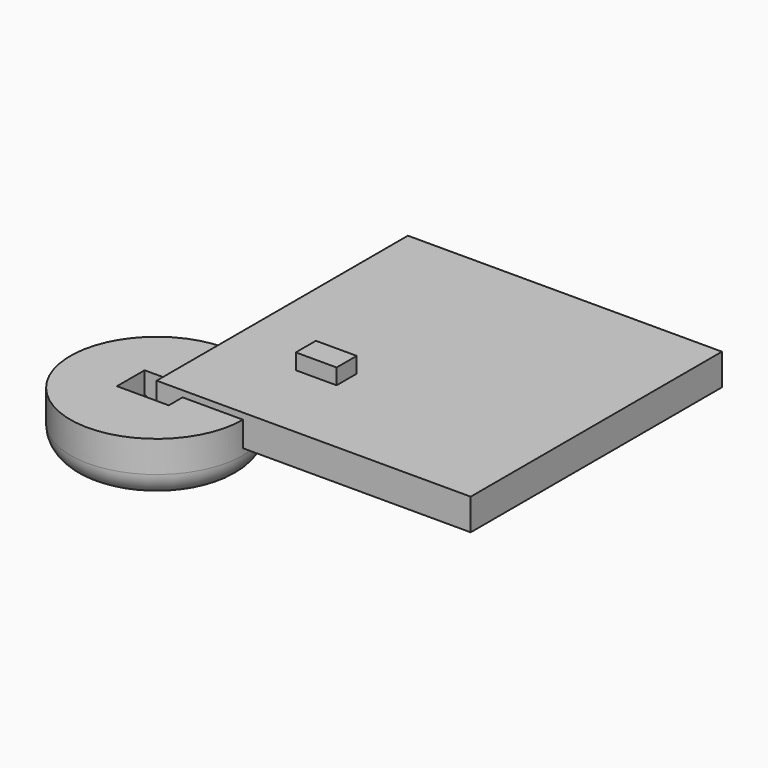
from build123d import *

# Parameters (mm, degrees)
PAD_DEPTH      = 2.4
CYLINDER_R     = 5.5
CYLINDER_DEPTH = 3.5
SKETCH_W       = 3.3
SKETCH_H       = 2.2
POCKET_DEPTH   = 3
FILLET_R       = 1.5
BOX_W          = 20
BOX_H          = 20
BOX_DEPTH      = 2
SKETCH002_W    = 2.6
SKETCH002_H    = 1.6
PAD001_DEPTH   = 1


with BuildPart() as pad:
    # Sketch001 → Pad (new body)
    with BuildSketch(Plane(origin=(0, 1.1, 0.1), x_dir=(1, 0, 0), z_dir=(0, -1, 0))):
        with BuildLine():
            Line((-1.6, 0.1), (-1.6, -0.1))
            ThreePointArc((-1.6, -0.1), (-1.5, 0), (-1.6, 0.1))
        make_face()
        with BuildLine():
            Line((1.6, 0.1), (1.6, -0.1))
            ThreePointArc((1.6, 0.1), (1.5, 0), (1.6, -0.1))
        make_face()
    extrude(amount=PAD_DEPTH)


with BuildPart() as fillet_body:
    # Cylinder → Cylinder (new body)
    with BuildSketch(Plane.XY.offset(-1.9)):
        Circle(CYLINDER_R)
    extrude(amount=CYLINDER_DEPTH)

    # Sketch → Pocket (cut)
    with BuildSketch(Plane.XY.offset(1.6)):
        Rectangle(SKETCH_W, SKETCH_H)
    extrude(amount=-POCKET_DEPTH, mode=Mode.SUBTRACT)

    # Fillet
    fillet_edges = [fillet_body.edges().sort_by_distance(p)[0] for p in [
        (-5.5, 0, -1.9),
    ]]
    fillet(fillet_edges, radius=FILLET_R)


with BuildPart() as pad001:
    # Box → Box (new body)
    with BuildSketch(Plane.XY):
        with Locations((10, 10)):
            Rectangle(BOX_W, BOX_H)
    extrude(amount=BOX_DEPTH)

    # Sketch002 → Pad001 (new body)
    with BuildSketch(Plane.XY.offset(2)):
        with Locations((6, 6)):
            Rectangle(SKETCH002_W, SKETCH002_H)
    extrude(amount=PAD001_DEPTH)


solid = Compound([pad.part, fillet_body.part, pad001.part])
